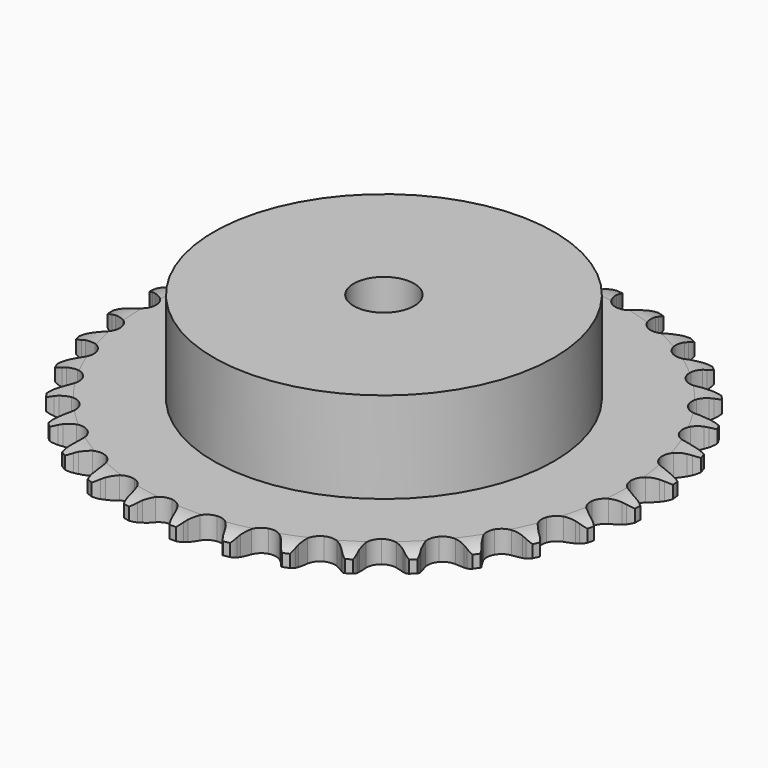
from build123d import *

# Parameters (mm, degrees)
PAD_DEPTH         = 5.9
SKETCH001_R       = 45
PAD001_DEPTH      = 30
SKETCH002_R       = 8
POCKET_DEPTH      = 0.001
POCKET_DEPTH_BACK = 30.001


with BuildPart() as part:
    # Sprocket → Pad (new body)
    with BuildSketch(Plane.XY):
        with BuildLine():
            ThreePointArc((-6.739751, 70.581868), (-5.654713, 69.397762), (-4.904592, 67.977644))
            Line((-4.904592, 67.977644), (-4.526513, 66.967241))
            ThreePointArc((-4.526513, 66.967241), (-3.927135, 65.657537), (-3.148108, 64.446052))
            ThreePointArc((-3.148108, 64.446052), (-1.760243, 63.286178), (0, 62.870221))
            ThreePointArc((0, 62.870221), (1.760243, 63.286178), (3.148108, 64.446052))
            ThreePointArc((3.148108, 64.446052), (3.927135, 65.657537), (4.526513, 66.967241))
            Line((4.526513, 66.967241), (4.904592, 67.977644))
            ThreePointArc((4.904592, 67.977644), (5.654713, 69.397762), (6.739751, 70.581868))
            ThreePointArc((6.739751, 70.581868), (7.581088, 69.213815), (8.048894, 67.677399))
            Line((8.048894, 67.677399), (8.22892, 66.613704))
            ThreePointArc((8.22892, 66.613704), (8.569604, 65.214235), (9.105278, 63.877211))
            ThreePointArc((9.105278, 63.877211), (10.248554, 62.475642), (11.898268, 61.734075))
            ThreePointArc((11.898268, 61.734075), (13.705422, 61.809386), (15.287714, 62.685644))
            Line((15.287714, 62.685644), (17.118347, 64.900407))
            ThreePointArc((17.118347, 64.900407), (17.387319, 65.368194), (17.680813, 65.820999))
            ThreePointArc((17.680813, 65.820999), (18.686138, 67.073492), (19.975661, 68.030855))
            ThreePointArc((19.975661, 68.030855), (20.542888, 66.528301), (20.711472, 64.931117))
            Line((20.711472, 64.931117), (20.686939, 63.852574))
            ThreePointArc((20.686939, 63.852574), (20.756615, 62.41392), (21.029575, 60.999682))
            ThreePointArc((21.029575, 60.999682), (21.886943, 59.407075), (23.366501, 58.366697))
            ThreePointArc((23.366501, 58.366697), (25.15525, 58.098642), (26.874781, 58.659614))
            Line((26.874781, 58.659614), (29.091479, 60.487904))
            ThreePointArc((29.091479, 60.487904), (29.44412, 60.896334), (29.818004, 61.285412))
            ThreePointArc((29.818004, 61.285412), (31.042197, 62.325012), (32.489599, 63.02103))
            ThreePointArc((32.489599, 63.02103), (32.762215, 61.438281), (32.625484, 59.838056))
            Line((32.625484, 59.838056), (32.397279, 58.783646))
            ThreePointArc((32.397279, 58.783646), (32.193428, 57.357804), (32.193809, 55.917465))
            ThreePointArc((32.193809, 55.917465), (32.73428, 54.19138), (33.990208, 52.889796))
            ThreePointArc((33.990208, 52.889796), (35.695902, 52.288061), (37.490524, 52.513473))
            Line((37.490524, 52.513473), (40.013169, 53.88921))
            ThreePointArc((40.013169, 53.88921), (40.436733, 54.223522), (40.877494, 54.53481))
            ThreePointArc((40.877494, 54.53481), (42.27631, 55.323944), (43.829278, 55.733461))
            ThreePointArc((43.829278, 55.733461), (43.797431, 54.127721), (43.360325, 52.582291))
            Line((43.360325, 52.582291), (42.936696, 51.590123))
            ThreePointArc((42.936696, 51.590123), (42.466687, 50.228628), (42.194475, 48.814245))
            ThreePointArc((42.194475, 48.814245), (42.398515, 47.017068), (43.38542, 45.501319))
            ThreePointArc((43.38542, 45.501319), (44.946411, 44.587654), (46.751261, 44.469358))
            Line((46.751261, 44.469358), (49.488679, 45.34282))
            ThreePointArc((49.488679, 45.34282), (49.967858, 45.59093), (50.459565, 45.813179))
            ThreePointArc((50.459565, 45.813179), (51.982447, 46.323324), (53.584853, 46.431539))
            ThreePointArc((53.584853, 46.431539), (53.249692, 44.860844), (52.528011, 43.426065))
            Line((52.528011, 43.426065), (51.924269, 42.531999))
            ThreePointArc((51.924269, 42.531999), (51.205089, 41.284058), (50.670122, 39.946751))
            ThreePointArc((50.670122, 39.946751), (50.530357, 38.143437), (51.21257, 36.468306))
            ThreePointArc((51.21257, 36.468306), (52.57244, 35.275733), (54.322286, 34.818004))
            Line((54.322286, 34.818004), (57.175539, 35.157622))
            ThreePointArc((57.175539, 35.157622), (57.693014, 35.310563), (58.217896, 35.435739))
            ThreePointArc((58.217896, 35.435739), (59.809803, 35.648458), (61.403731, 35.451461))
            ThreePointArc((61.403731, 35.451461), (60.777372, 33.97258), (59.797199, 32.700308))
            Line((59.797199, 32.700308), (59.035163, 31.936658))
            ThreePointArc((59.035163, 31.936658), (58.092805, 30.847374), (57.314419, 29.635478))
            ThreePointArc((57.314419, 29.635478), (56.835901, 27.891202), (57.188765, 26.117234))
            ThreePointArc((57.188765, 26.117234), (58.298364, 24.688855), (59.929962, 23.908237))
            Line((59.929962, 23.908237), (62.795926, 23.701736))
            ThreePointArc((62.795926, 23.701736), (63.332994, 23.753981), (63.872081, 23.77756))
            ThreePointArc((63.872081, 23.77756), (65.475477, 23.685164), (67.003319, 23.190074))
            ThreePointArc((67.003319, 23.190074), (66.108398, 21.856458), (64.905159, 20.792676))
            Line((64.905159, 20.792676), (64.012373, 20.187043))
            ThreePointArc((64.012373, 20.187043), (62.880897, 19.295786), (61.887224, 18.253101))
            ThreePointArc((61.887224, 18.253101), (61.087247, 16.630907), (61.098008, 14.822216))
            ThreePointArc((61.098008, 14.822216), (61.917233, 13.209657), (63.371613, 12.134364))
            Line((63.371613, 12.134364), (66.146705, 11.389208))
            ThreePointArc((66.146705, 11.389208), (66.683954, 11.338867), (67.217762, 11.259998))
            ThreePointArc((67.217762, 11.259998), (68.774697, 10.865827), (70.181232, 10.090538))
            ThreePointArc((70.181232, 10.090538), (69.050095, 8.950386), (67.667278, 8.133543))
            Line((67.667278, 8.133543), (66.676009, 7.707816))
            ThreePointArc((66.676009, 7.707816), (65.396308, 7.046798), (64.223263, 6.211009))
            ThreePointArc((64.223263, 6.211009), (63.13074, 4.769527), (62.799011, 2.991486))
            ThreePointArc((62.799011, 2.991486), (63.298252, 1.253028), (64.522849, -0.078076))
            Line((64.522849, -0.078076), (67.10677, -1.334957))
            ThreePointArc((67.10677, -1.334957), (67.624783, -1.486062), (68.134018, -1.66453))
            ThreePointArc((68.134018, -1.66453), (69.58822, -2.34623), (70.822613, -3.373697))
            ThreePointArc((70.822613, -3.373697), (69.496142, -4.279175), (67.983726, -4.819557))
            Line((67.983726, -4.819557), (66.929801, -5.049992))
            ThreePointArc((66.929801, -5.049992), (65.548127, -5.456879), (64.238107, -6.055564))
            ThreePointArc((64.238107, -6.055564), (62.892525, -7.264235), (62.230293, -8.947365))
            ThreePointArc((62.230293, -8.947365), (62.391507, -10.748889), (63.342062, -12.287695))
            Line((63.342062, -12.287695), (65.641421, -14.010872))
            ThreePointArc((65.641421, -14.010872), (66.121476, -14.257281), (66.587733, -14.528898))
            ThreePointArc((66.587733, -14.528898), (67.886643, -15.473487), (68.90428, -16.715997))
            ThreePointArc((68.90428, -16.715997), (67.430417, -17.354076), (65.843064, -17.598466))
            Line((65.843064, -17.598466), (64.764575, -17.62528))
            ThreePointArc((64.764575, -17.62528), (63.330866, -17.763331), (61.931217, -18.103274))
            ThreePointArc((61.931217, -18.103274), (60.381209, -19.03545), (59.412411, -20.562835))
            ThreePointArc((59.412411, -20.562835), (59.229771, -22.362313), (59.871926, -24.053204))
            Line((59.871926, -24.053204), (61.80362, -26.180398))
            ThreePointArc((61.80362, -26.180398), (62.228367, -26.513205), (62.634794, -26.868153))
            ThreePointArc((62.634794, -26.868153), (63.731466, -28.041493), (64.495566, -29.454138))
            ThreePointArc((64.495566, -29.454138), (62.927581, -29.801756), (61.322662, -29.741321))
            Line((61.322662, -29.741321), (60.258588, -29.563545))
            ThreePointArc((60.258588, -29.563545), (58.824662, -29.42777), (57.385972, -29.496684))
            ThreePointArc((57.385972, -29.496684), (55.687559, -30.118673), (54.447209, -31.435111))
            ThreePointArc((54.447209, -31.435111), (53.927316, -33.167505), (54.237864, -34.949368))
            Line((54.237864, -34.949368), (55.732075, -37.403696))
            ThreePointArc((55.732075, -37.403696), (56.086162, -37.810873), (56.41807, -38.236323))
            ThreePointArc((56.41807, -38.236323), (57.272868, -39.596006), (57.755815, -41.12773))
            ThreePointArc((57.755815, -41.12773), (56.150378, -41.172322), (54.5859, -40.809246))
            Line((54.5859, -40.809246), (53.574699, -40.433306))
            ThreePointArc((53.574699, -40.433306), (52.192382, -40.028612), (50.766649, -39.824007))
            ThreePointArc((50.766649, -39.824007), (48.981216, -40.11333), (47.514143, -41.171239))
            ThreePointArc((47.514143, -41.171239), (46.675788, -42.773936), (46.643504, -44.58237))
            Line((46.643504, -44.58237), (47.646228, -47.275127))
            ThreePointArc((47.646228, -47.275127), (47.916857, -47.741957), (48.162251, -48.222533))
            ThreePointArc((48.162251, -48.222533), (48.744279, -49.719416), (48.928618, -51.314858))
            ThreePointArc((48.928618, -51.314858), (47.343754, -51.054814), (45.876261, -50.40222))
            Line((45.876261, -50.40222), (44.954481, -49.841702))
            ThreePointArc((44.954481, -49.841702), (43.673733, -49.182716), (42.312486, -48.711987))
            ThreePointArc((42.312486, -48.711987), (40.504564, -48.658186), (38.863792, -49.419332))
            ThreePointArc((38.863792, -49.419332), (37.737275, -50.834406), (37.363326, -52.60405))
            Line((37.363326, -52.60405), (37.838322, -55.437912))
            ThreePointArc((37.838322, -55.437912), (38.015712, -55.947523), (38.165722, -56.465855))
            ThreePointArc((38.165722, -56.465855), (38.453945, -58.045837), (38.333014, -59.647333))
            ThreePointArc((38.333014, -59.647333), (36.826004, -59.092051), (35.508534, -58.173525))
            Line((35.508534, -58.173525), (34.709491, -57.448689))
            ThreePointArc((34.709491, -57.448689), (33.576602, -56.559229), (32.329041, -55.839389))
            ThreePointArc((32.329041, -55.839389), (30.563972, -55.444408), (28.808803, -55.881281))
            ThreePointArc((28.808803, -55.881281), (27.434838, -57.057589), (26.73274, -58.724482))
            Line((26.73274, -58.724482), (26.66284, -61.597026))
            ThreePointArc((26.66284, -61.597026), (26.740581, -62.130999), (26.789784, -62.668354))
            ThreePointArc((26.789784, -62.668354), (26.773786, -64.27433), (26.351954, -65.823999))
            ThreePointArc((26.351954, -65.823999), (24.977266, -64.993548), (23.857437, -63.842288))
            Line((23.857437, -63.842288), (23.21001, -62.979331))
            ThreePointArc((23.21001, -62.979331), (22.265924, -61.891543), (21.177139, -60.948609))
            ThreePointArc((21.177139, -60.948609), (19.518718, -60.226725), (17.712588, -60.323536))
            ThreePointArc((17.712588, -60.323536), (16.140835, -61.218561), (15.135963, -62.722459))
            Line((15.135963, -62.722459), (14.523694, -65.529863))
            ThreePointArc((14.523694, -65.529863), (14.498975, -66.068899), (14.445594, -66.605855))
            ThreePointArc((14.445594, -66.605855), (14.125952, -68.179781), (13.418466, -69.621614))
            ThreePointArc((13.418466, -69.621614), (12.225785, -68.546009), (11.344069, -67.203625))
            Line((11.344069, -67.203625), (10.871658, -66.233735))
            ThreePointArc((10.871658, -66.233735), (10.150499, -64.986936), (9.25984, -63.854988))
            ThreePointArc((9.25984, -63.854988), (7.768007, -62.832291), (5.976194, -62.58554))
            ThreePointArc((5.976194, -62.58554), (4.263461, -63.166935), (2.992133, -64.453482))
            Line((2.992133, -64.453482), (1.859624, -67.09428))
            ThreePointArc((1.859624, -67.09428), (1.733338, -67.618897), (1.579302, -68.136047))
            ThreePointArc((1.579302, -68.136047), (0.967569, -69.621038), (0, -70.902922))
            ThreePointArc((0, -70.902922), (-0.967569, -69.621038), (-1.579302, -68.136047))
            Line((-1.579302, -68.136047), (-1.859624, -67.09428))
            ThreePointArc((-1.859624, -67.09428), (-2.331793, -65.733532), (-2.992133, -64.453482))
            ThreePointArc((-2.992133, -64.453482), (-4.263461, -63.166935), (-5.976194, -62.58554))
            ThreePointArc((-5.976194, -62.58554), (-7.768007, -62.832291), (-9.25984, -63.854988))
            Line((-9.25984, -63.854988), (-10.871658, -66.233735))
            ThreePointArc((-10.871658, -66.233735), (-11.094946, -66.724972), (-11.344069, -67.203625))
            ThreePointArc((-11.344069, -67.203625), (-12.225785, -68.546009), (-13.418466, -69.621614))
            ThreePointArc((-13.418466, -69.621614), (-14.125952, -68.179781), (-14.445594, -66.605855))
            Line((-14.445594, -66.605855), (-14.523694, -65.529863))
            ThreePointArc((-14.523694, -65.529863), (-14.729807, -64.104347), (-15.135963, -62.722459))
            ThreePointArc((-15.135963, -62.722459), (-16.140835, -61.218561), (-17.712588, -60.323536))
            ThreePointArc((-17.712588, -60.323536), (-19.518718, -60.226725), (-21.177139, -60.948609))
            Line((-21.177139, -60.948609), (-23.21001, -62.979331))
            ThreePointArc((-23.21001, -62.979331), (-23.52223, -63.419432), (-23.857437, -63.842288))
            ThreePointArc((-23.857437, -63.842288), (-24.977266, -64.993548), (-26.351954, -65.823999))
            ThreePointArc((-26.351954, -65.823999), (-26.773786, -64.27433), (-26.789784, -62.668354))
            Line((-26.789784, -62.668354), (-26.66284, -61.597026))
            ThreePointArc((-26.66284, -61.597026), (-26.595448, -60.158264), (-26.73274, -58.724482))
            ThreePointArc((-26.73274, -58.724482), (-27.434838, -57.057589), (-28.808803, -55.881281))
            ThreePointArc((-28.808803, -55.881281), (-30.563972, -55.444408), (-32.329041, -55.839389))
            Line((-32.329041, -55.839389), (-34.709491, -57.448689))
            ThreePointArc((-34.709491, -57.448689), (-35.099359, -57.821749), (-35.508534, -58.173525))
            ThreePointArc((-35.508534, -58.173525), (-36.826004, -59.092051), (-38.333014, -59.647333))
            ThreePointArc((-38.333014, -59.647333), (-38.453945, -58.045837), (-38.165722, -56.465855))
            Line((-38.165722, -56.465855), (-37.838322, -55.437912))
            ThreePointArc((-37.838322, -55.437912), (-37.49986, -54.037904), (-37.363326, -52.60405))
            ThreePointArc((-37.363326, -52.60405), (-37.737275, -50.834406), (-38.863792, -49.419332))
            ThreePointArc((-38.863792, -49.419332), (-40.504564, -48.658186), (-42.312486, -48.711987))
            Line((-42.312486, -48.711987), (-44.954481, -49.841702))
            ThreePointArc((-44.954481, -49.841702), (-45.407906, -50.134238), (-45.876261, -50.40222))
            ThreePointArc((-45.876261, -50.40222), (-47.343754, -51.054814), (-48.928618, -51.314858))
            ThreePointArc((-48.928618, -51.314858), (-48.744279, -49.719416), (-48.162251, -48.222533))
            Line((-48.162251, -48.222533), (-47.646228, -47.275127))
            ThreePointArc((-47.646228, -47.275127), (-47.048929, -45.964473), (-46.643504, -44.58237))
            ThreePointArc((-46.643504, -44.58237), (-46.675788, -42.773936), (-47.514143, -41.171239))
            ThreePointArc((-47.514143, -41.171239), (-48.981216, -40.11333), (-50.766649, -39.824007))
            Line((-50.766649, -39.824007), (-53.574699, -40.433306))
            ThreePointArc((-53.574699, -40.433306), (-54.075293, -40.634744), (-54.5859, -40.809246))
            ThreePointArc((-54.5859, -40.809246), (-56.150378, -41.172322), (-57.755815, -41.12773))
            ThreePointArc((-57.755815, -41.12773), (-57.272868, -39.596006), (-56.41807, -38.236323))
            Line((-56.41807, -38.236323), (-55.732075, -37.403696))
            ThreePointArc((-55.732075, -37.403696), (-54.897527, -36.229767), (-54.237864, -34.949368))
            ThreePointArc((-54.237864, -34.949368), (-53.927316, -33.167505), (-54.447209, -31.435111))
            ThreePointArc((-54.447209, -31.435111), (-55.687559, -30.118673), (-57.385972, -29.496684))
            Line((-57.385972, -29.496684), (-60.258588, -29.563545))
            ThreePointArc((-60.258588, -29.563545), (-60.788258, -29.666605), (-61.322662, -29.741321))
            ThreePointArc((-61.322662, -29.741321), (-62.927581, -29.801756), (-64.495566, -29.454138))
            ThreePointArc((-64.495566, -29.454138), (-63.731466, -28.041493), (-62.634794, -26.868153))
            Line((-62.634794, -26.868153), (-61.80362, -26.180398))
            ThreePointArc((-61.80362, -26.180398), (-60.761986, -25.185623), (-59.871926, -24.053204))
            ThreePointArc((-59.871926, -24.053204), (-59.229771, -22.362313), (-59.412411, -20.562835))
            ThreePointArc((-59.412411, -20.562835), (-60.381209, -19.03545), (-61.931217, -18.103274))
            Line((-61.931217, -18.103274), (-64.764575, -17.62528))
            ThreePointArc((-64.764575, -17.62528), (-65.304176, -17.626237), (-65.843064, -17.598466))
            ThreePointArc((-65.843064, -17.598466), (-67.430417, -17.354076), (-68.90428, -16.715997))
            ThreePointArc((-68.90428, -16.715997), (-67.886643, -15.473487), (-66.587733, -14.528898))
            Line((-66.587733, -14.528898), (-65.641421, -14.010872))
            ThreePointArc((-65.641421, -14.010872), (-64.430348, -13.231204), (-63.342062, -12.287695))
            ThreePointArc((-63.342062, -12.287695), (-62.391507, -10.748889), (-62.230293, -8.947365))
            ThreePointArc((-62.230293, -8.947365), (-62.892525, -7.264235), (-64.238107, -6.055564))
            Line((-64.238107, -6.055564), (-66.929801, -5.049992))
            ThreePointArc((-66.929801, -5.049992), (-67.459832, -4.948811), (-67.983726, -4.819557))
            ThreePointArc((-67.983726, -4.819557), (-69.496142, -4.279175), (-70.822613, -3.373697))
            ThreePointArc((-70.822613, -3.373697), (-69.58822, -2.34623), (-68.134018, -1.66453))
            Line((-68.134018, -1.66453), (-67.10677, -1.334957))
            ThreePointArc((-67.10677, -1.334957), (-65.77003, -0.798576), (-64.522849, -0.078076))
            ThreePointArc((-64.522849, -0.078076), (-63.298252, 1.253028), (-62.799011, 2.991486))
            ThreePointArc((-62.799011, 2.991486), (-63.13074, 4.769527), (-64.223263, 6.211009))
            Line((-64.223263, 6.211009), (-66.676009, 7.707816))
            ThreePointArc((-66.676009, 7.707816), (-67.177314, 7.907477), (-67.667278, 8.133543))
            ThreePointArc((-67.667278, 8.133543), (-69.050095, 8.950386), (-70.181232, 10.090538))
            ThreePointArc((-70.181232, 10.090538), (-68.774697, 10.865827), (-67.217762, 11.259998))
            Line((-67.217762, 11.259998), (-66.146705, 11.389208))
            ThreePointArc((-66.146705, 11.389208), (-64.732611, 11.662916), (-63.371613, 12.134364))
            ThreePointArc((-63.371613, 12.134364), (-61.917233, 13.209657), (-61.098008, 14.822216))
            ThreePointArc((-61.098008, 14.822216), (-61.087247, 16.630907), (-61.887224, 18.253101))
            Line((-61.887224, 18.253101), (-64.012373, 20.187043))
            ThreePointArc((-64.012373, 20.187043), (-64.466832, 20.477969), (-64.905159, 20.792676))
            ThreePointArc((-64.905159, 20.792676), (-66.108398, 21.856458), (-67.003319, 23.190074))
            ThreePointArc((-67.003319, 23.190074), (-65.475477, 23.685164), (-63.872081, 23.77756))
            Line((-63.872081, 23.77756), (-62.795926, 23.701736))
            ThreePointArc((-62.795926, 23.701736), (-61.355587, 23.702879), (-59.929962, 23.908237))
            ThreePointArc((-59.929962, 23.908237), (-58.298364, 24.688855), (-57.188765, 26.117234))
            ThreePointArc((-57.188765, 26.117234), (-56.835901, 27.891202), (-57.314419, 29.635478))
            Line((-57.314419, 29.635478), (-59.035163, 31.936658))
            ThreePointArc((-59.035163, 31.936658), (-59.426352, 32.308334), (-59.797199, 32.700308))
            ThreePointArc((-59.797199, 32.700308), (-60.777372, 33.97258), (-61.403731, 35.451461))
            ThreePointArc((-61.403731, 35.451461), (-59.809803, 35.648458), (-58.217896, 35.435739))
            Line((-58.217896, 35.435739), (-57.175539, 35.157622))
            ThreePointArc((-57.175539, 35.157622), (-55.761012, 34.886158), (-54.322286, 34.818004))
            ThreePointArc((-54.322286, 34.818004), (-52.57244, 35.275733), (-51.21257, 36.468306))
            ThreePointArc((-51.21257, 36.468306), (-50.530357, 38.143437), (-50.670122, 39.946751))
            Line((-50.670122, 39.946751), (-51.924269, 42.531999))
            ThreePointArc((-51.924269, 42.531999), (-52.238048, 42.970991), (-52.528011, 43.426065))
            ThreePointArc((-52.528011, 43.426065), (-53.249692, 44.860844), (-53.584853, 46.431539))
            ThreePointArc((-53.584853, 46.431539), (-51.982447, 46.323324), (-50.459565, 45.813179))
            Line((-50.459565, 45.813179), (-49.488679, 45.34282))
            ThreePointArc((-49.488679, 45.34282), (-48.15109, 44.808561), (-46.751261, 44.469358))
            ThreePointArc((-46.751261, 44.469358), (-44.946411, 44.587654), (-43.38542, 45.501319))
            ThreePointArc((-43.38542, 45.501319), (-42.398515, 47.017068), (-42.194475, 48.814245))
            Line((-42.194475, 48.814245), (-42.936696, 51.590123))
            ThreePointArc((-42.936696, 51.590123), (-43.161724, 52.080565), (-43.360325, 52.582291))
            ThreePointArc((-43.360325, 52.582291), (-43.797431, 54.127721), (-43.829278, 55.733461))
            ThreePointArc((-43.829278, 55.733461), (-42.27631, 55.323944), (-40.877494, 54.53481))
            Line((-40.877494, 54.53481), (-40.013169, 53.88921))
            ThreePointArc((-40.013169, 53.88921), (-38.800861, 53.111465), (-37.490524, 52.513473))
            ThreePointArc((-37.490524, 52.513473), (-35.695902, 52.288061), (-33.990208, 52.889796))
            ThreePointArc((-33.990208, 52.889796), (-32.73428, 54.19138), (-32.193809, 55.917465))
            Line((-32.193809, 55.917465), (-32.397279, 58.783646))
            ThreePointArc((-32.397279, 58.783646), (-32.525424, 59.307811), (-32.625484, 59.838056))
            ThreePointArc((-32.625484, 59.838056), (-32.762215, 61.438281), (-32.489599, 63.02103))
            ThreePointArc((-32.489599, 63.02103), (-31.042197, 62.325012), (-29.818004, 61.285412))
            Line((-29.818004, 61.285412), (-29.091479, 60.487904))
            ThreePointArc((-29.091479, 60.487904), (-28.048268, 59.494783), (-26.874781, 58.659614))
            ThreePointArc((-26.874781, 58.659614), (-25.15525, 58.098642), (-23.366501, 58.366697))
            ThreePointArc((-23.366501, 58.366697), (-21.886943, 59.407075), (-21.029575, 60.999682))
            Line((-21.029575, 60.999682), (-20.686939, 63.852574))
            ThreePointArc((-20.686939, 63.852574), (-20.71357, 64.391519), (-20.711472, 64.931117))
            ThreePointArc((-20.711472, 64.931117), (-20.542888, 66.528301), (-19.975661, 68.030855))
            ThreePointArc((-19.975661, 68.030855), (-18.686138, 67.073492), (-17.680813, 65.820999))
            Line((-17.680813, 65.820999), (-17.118347, 64.900407))
            ThreePointArc((-17.118347, 64.900407), (-16.281937, 63.727804), (-15.287714, 62.685644))
            ThreePointArc((-15.287714, 62.685644), (-13.705422, 61.809386), (-11.898268, 61.734075))
            ThreePointArc((-11.898268, 61.734075), (-10.248554, 62.475642), (-9.105278, 63.877211))
            Line((-9.105278, 63.877211), (-8.22892, 66.613704))
            ThreePointArc((-8.22892, 66.613704), (-8.153074, 67.147949), (-8.048894, 67.677399))
            ThreePointArc((-8.048894, 67.677399), (-7.581088, 69.213815), (-6.739751, 70.581868))
        make_face()
    extrude(amount=PAD_DEPTH)

    # Sketch → Groove (revolve, cut)
    with BuildSketch(Plane.XZ):
        with BuildLine():
            Line((64.133431, 0), (69.8, 0))
            Line((75.466569, 0), (69.8, 0))
            Line((75.466569, 5.9), (75.466569, 0))
            Line((69.8, 5.9), (75.466569, 5.9))
            Line((64.133431, 5.9), (69.8, 5.9))
            ThreePointArc((69.8, 4.6), (67.04032, 5.570833), (64.133431, 5.9))
            Line((69.8, 1.3), (69.8, 4.6))
            ThreePointArc((64.133431, 0), (67.04032, 0.329167), (69.8, 1.3))
        make_face()
    revolve(axis=Axis((0, 0, 0), (0, 0, 1)), mode=Mode.SUBTRACT)

    # Sketch001 → Pad001 (join)
    with BuildSketch(Plane.XY):
        Circle(SKETCH001_R)
    extrude(amount=PAD001_DEPTH)

    # Sketch002 → Pocket (cut, two sides)
    with BuildSketch(Plane.XY) as pocket_sk:
        Circle(SKETCH002_R)
    extrude(amount=-POCKET_DEPTH, mode=Mode.SUBTRACT)
    extrude(pocket_sk.sketch, amount=POCKET_DEPTH_BACK, mode=Mode.SUBTRACT)


solid = part.part
